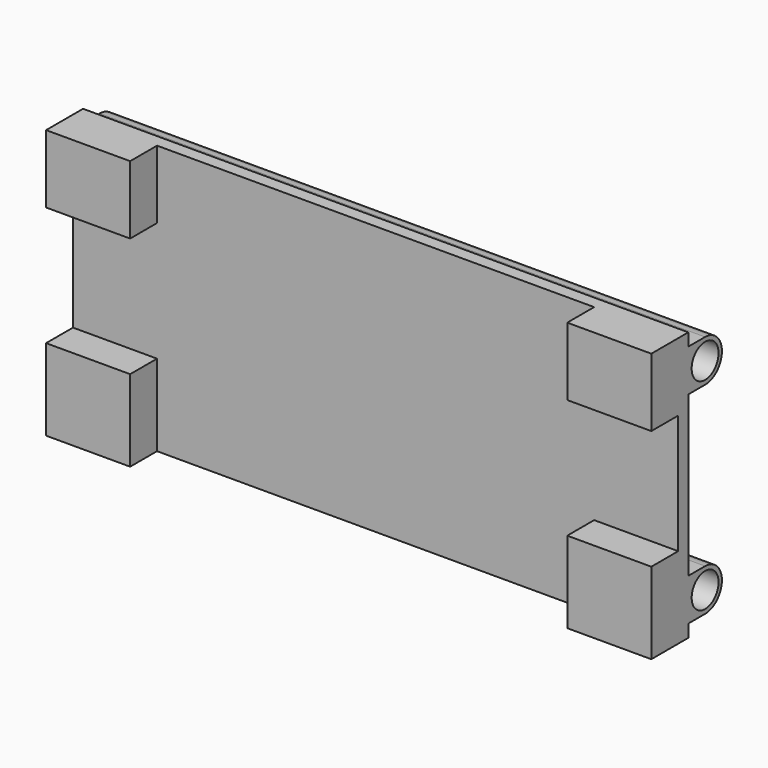
from build123d import *

# Parameters (mm, degrees)
F0_R     = 6.35
F1_DEPTH = 228.6
F2_W     = 165.1
F2_H     = 25.7380759895
F2_H_2   = 10.3431178749
F2_H_3   = 45.0917202979
F2_H_4   = 30.7702037126
F2_H_5   = 15.0568821251
F2_W_2   = 31.75
F3_DEPTH = 12.7


with BuildPart() as f1:
    # F0 (on Right) → F1 (new body)
    with BuildSketch(Plane.YZ):
        with BuildLine():
            ThreePointArc((0, 30.1625), (-7.9375, 38.1), (0, 46.0375))
            Line((0, 46.0375), (-7.9375, 46.0375))
            Line((-7.9375, 46.0375), (-7.9375, 50.8))
            Line((-7.9375, 50.8), (-25.4, 50.8))
            Line((-25.4, 50.8), (-25.4, -50.8))
            Line((-25.4, -50.8), (-7.9375, -50.8))
            Line((-7.9375, -50.8), (-7.9375, -46.0375))
            Line((-7.9375, -46.0375), (0, -46.0375))
            ThreePointArc((0, -46.0375), (-7.9375, -38.1), (0, -30.1625))
            Line((0, -30.1625), (-7.9375, -30.1625))
            Line((-7.9375, -30.1625), (-7.9375, 30.1625))
            Line((-7.9375, 30.1625), (0, 30.1625))
        make_face()
        with BuildLine():
            ThreePointArc((7.9375, -38.1), (5.6126600757, -32.4873399243), (0, -30.1625))
            ThreePointArc((0, -30.1625), (-7.9375, -38.1), (0, -46.0375))
            ThreePointArc((0, -46.0375), (5.6126600757, -43.7126600757), (7.9375, -38.1))
        make_face()
        with Locations((0, -38.1)):
            Circle(F0_R, mode=Mode.SUBTRACT)
        with BuildLine():
            ThreePointArc((0, 30.1625), (5.6126600757, 32.4873399243), (7.9375, 38.1))
            ThreePointArc((7.9375, 38.1), (5.6126600757, 43.7126600757), (0, 46.0375))
            ThreePointArc((0, 46.0375), (-7.9375, 38.1), (0, 30.1625))
        make_face()
        with Locations((0, 38.1)):
            Circle(F0_R, mode=Mode.SUBTRACT)
    extrude(amount=F1_DEPTH)

    # F2 (on face) → F3 (cut)
    with BuildSketch(Plane.XZ.offset(25.4)):
        with Locations((114.3, 37.9309620053)):
            Rectangle(F2_W, F2_H)
        with Locations((114.3, 55.9715589374)):
            Rectangle(F2_W, F2_H_2)
        with Locations((114.3, 2.5160638615)):
            Rectangle(F2_W, F2_H_3)
        with Locations((114.3, -35.4148981437)):
            Rectangle(F2_W, F2_H_4)
        with Locations((114.3, -58.3284410626)):
            Rectangle(F2_W, F2_H_5)
        with Locations((15.875, 2.5160638615)):
            Rectangle(F2_W_2, F2_H_3)
        with Locations((212.725, 2.5160638615)):
            Rectangle(F2_W_2, F2_H_3)
    extrude(amount=-F3_DEPTH, mode=Mode.SUBTRACT)


solid = f1.part
